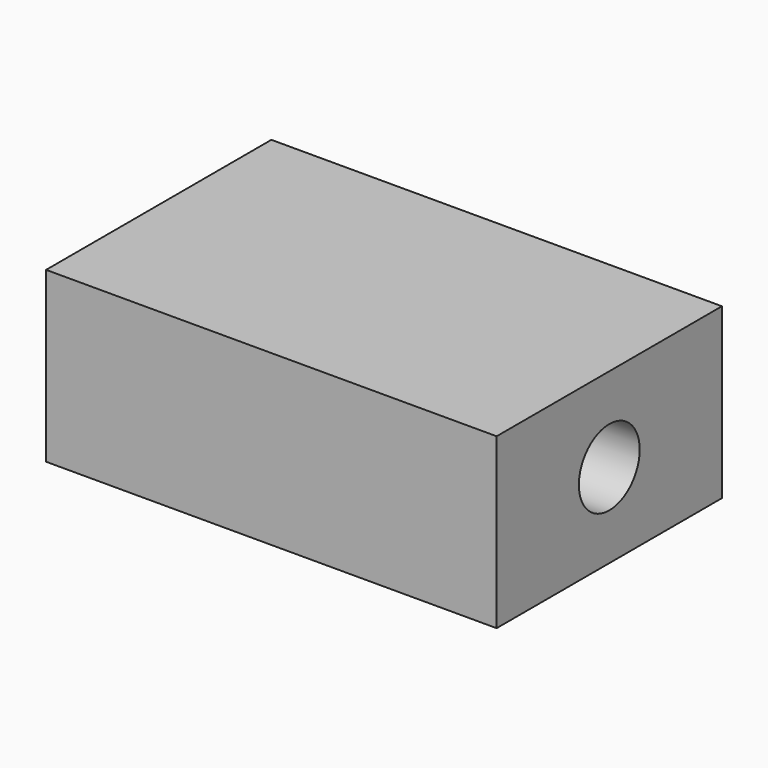
from build123d import *

# Parameters (mm, degrees)
F0_W     = 20.32
F0_H     = 7.62
F1_DEPTH = 12.7
F2_R     = 1.7145
F3_DEPTH = 20.32


with BuildPart() as f1:
    # F0 (on Front) → F1 (new body)
    with BuildSketch(Plane.XZ):
        Rectangle(F0_W, F0_H)
    extrude(amount=F1_DEPTH)

    # F2 (on face) → F3 (cut)
    with BuildSketch(Plane.YZ.offset(10.16)):
        with Locations((-6.35, 0)):
            Circle(F2_R)
    extrude(amount=-F3_DEPTH, mode=Mode.SUBTRACT)


solid = f1.part
